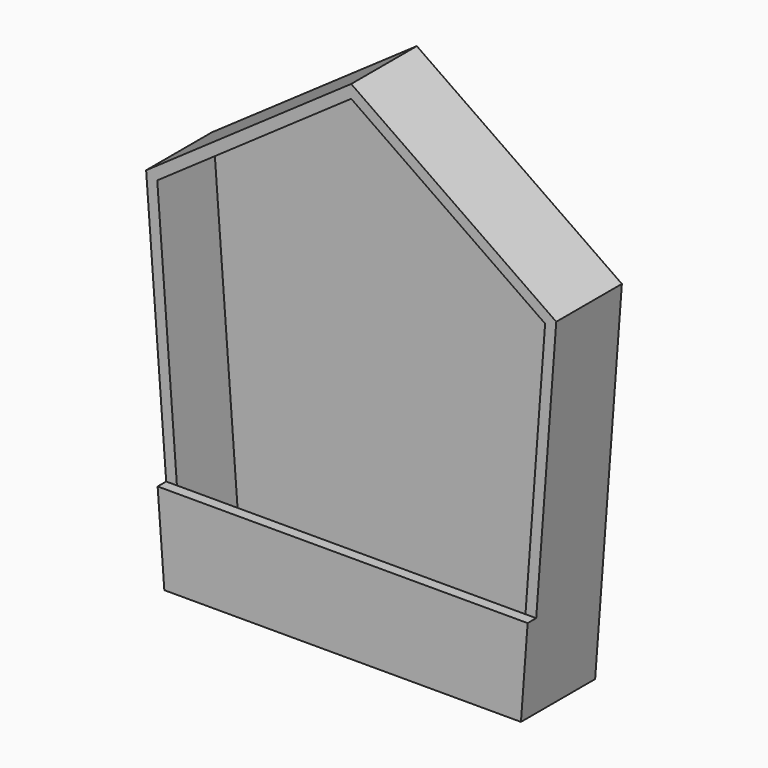
from build123d import *

# Parameters (mm, degrees)
F1_DEPTH = 6
F3_DEPTH = 40
F5_DEPTH = 6


with BuildPart() as f1:
    # F0 (on Front) → F1 (new body)
    with BuildSketch(Plane.XZ):
        Polygon((-15, 200), (0, 0), (100, 0), (100, 200), align=None)
        Polygon((100, 200), (100, 0), (200, 0), (215, 200), align=None)
        Polygon((100, 280), (100, 200), (215, 200), align=None)
        Polygon((100, 280), (-15, 200), (100, 200), align=None)
    extrude(amount=F1_DEPTH)

    # F2 (on face) → F3 (join)
    with BuildSketch(Plane.XZ.offset(6)):
        Polygon((100, 280), (-15, 200), (0, 0), (200, 0), (215, 200), align=None)
        Polygon((-8.760511823, 197.0315087877), (100, 272.6909952733), (208.760511823, 197.0315087877), (194.433148664, 6), (5.566851336, 6), align=None, mode=Mode.SUBTRACT)
    extrude(amount=F3_DEPTH)

    # F4 (on face) → F5 (join)
    with BuildSketch(Plane.XZ.offset(46)):
        Polygon((197.733148664, 50), (2.266851336, 50), (5.566851336, 6), (194.433148664, 6), align=None)
        Polygon((2.266851336, 50), (-3.75, 50), (0, 0), (200, 0), (203.75, 50), (197.733148664, 50), (194.433148664, 6), (5.566851336, 6), align=None)
    extrude(amount=F5_DEPTH)


solid = f1.part
